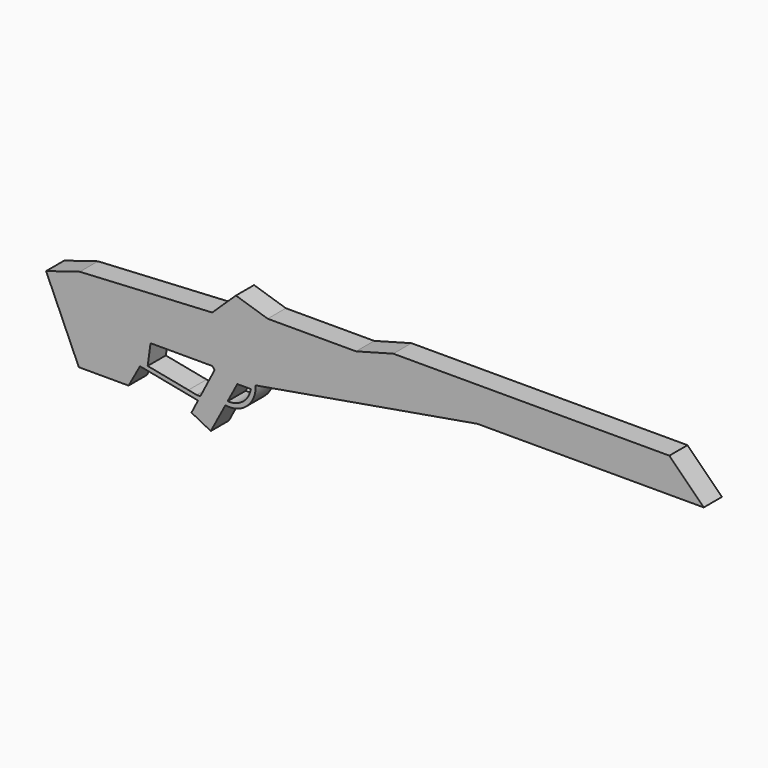
from build123d import *

# Parameters (mm, degrees)
F1_DEPTH = 25


with BuildPart() as f1:
    # F0 (on Front) → F1 (new body)
    with BuildSketch(Plane.XZ):
        Polygon((367.473159, 37.881499), (63.624065, 37.881499), (22.529194, 26.785146), (-74.708393, 26.785146), (-109.664981, 37.881499), (-135.774802, 12.936393), (-281.499266, 5.046134), (-318.647265, -6.34683), (-282.593813, -87.8235), (-227.826428, -87.8235), (-215.265799, -64.971001), (-211.985035, -42.118501), (-210.623877, -32.637216), (-136.59613, -32.637216), (-128.112047, -32.177844), (-133.220164, -42.118501), (-109.659574, -42.118501), (-93.017144, -42.118501), (-87.93899, -42.118501), (156.094849, 0), (405.345833, 0), align=None)
        Polygon((-122.766047, -66.823296), (-109.659574, -42.118501), (-133.220164, -42.118501), (-148.813925, -72.464758), (-151.375101, -77.448938), (-158.60486, -91.51842), (-140.738134, -100.699436), (-125.198854, -71.408968), align=None)
        with BuildLine():
            ThreePointArc((-121.31966, -72.286692), (-97.447394, -65.149299), (-87.93899, -42.118501))
            Line((-87.93899, -42.118501), (-93.017144, -42.118501))
            ThreePointArc((-93.017144, -42.118501), (-92.994342, -44.768054), (-93.264839, -47.403862))
            ThreePointArc((-93.264839, -47.403862), (-102.08842, -62.436086), (-118.771899, -67.484341))
            ThreePointArc((-118.771899, -67.484341), (-120.782989, -67.238505), (-122.766047, -66.823296))
            Line((-122.766047, -66.823296), (-125.198854, -71.408968))
            ThreePointArc((-125.198854, -71.408968), (-123.274332, -71.914456), (-121.31966, -72.286692))
        make_face()
        with BuildLine():
            ThreePointArc((-93.264839, -47.403862), (-92.994342, -44.768054), (-93.017144, -42.118501))
            Line((-93.017144, -42.118501), (-109.659574, -42.118501))
            Line((-109.659574, -42.118501), (-122.766047, -66.823296))
            ThreePointArc((-122.766047, -66.823296), (-120.782989, -67.238505), (-118.771899, -67.484341))
            Line((-118.771899, -67.484341), (-108.118735, -47.403862))
            Line((-108.118735, -47.403862), (-93.264839, -47.403862))
        make_face()
        Polygon((-135.613307, -38.852425), (-133.220164, -42.118501), (-128.112047, -32.177844), (-136.59613, -32.637216), (-210.623877, -32.637216), (-211.985035, -42.118501), (-215.265799, -64.971001), (-158.870872, -75.985004), (-151.375101, -77.448938), (-148.813925, -72.464758), (-152.885377, -72.464758), (-161.944241, -70.69555), (-206.79819, -61.935515), (-203.630078, -38.852425), (-145.581298, -38.852425), align=None)
        with BuildLine():
            Line((-137.324025, -102.453814), (-121.31966, -72.286692))
            ThreePointArc((-121.31966, -72.286692), (-123.274332, -71.914456), (-125.198854, -71.408968))
            Line((-125.198854, -71.408968), (-140.738134, -100.699436))
            Line((-140.738134, -100.699436), (-137.324025, -102.453814))
        make_face()
    extrude(amount=F1_DEPTH)


solid = f1.part
